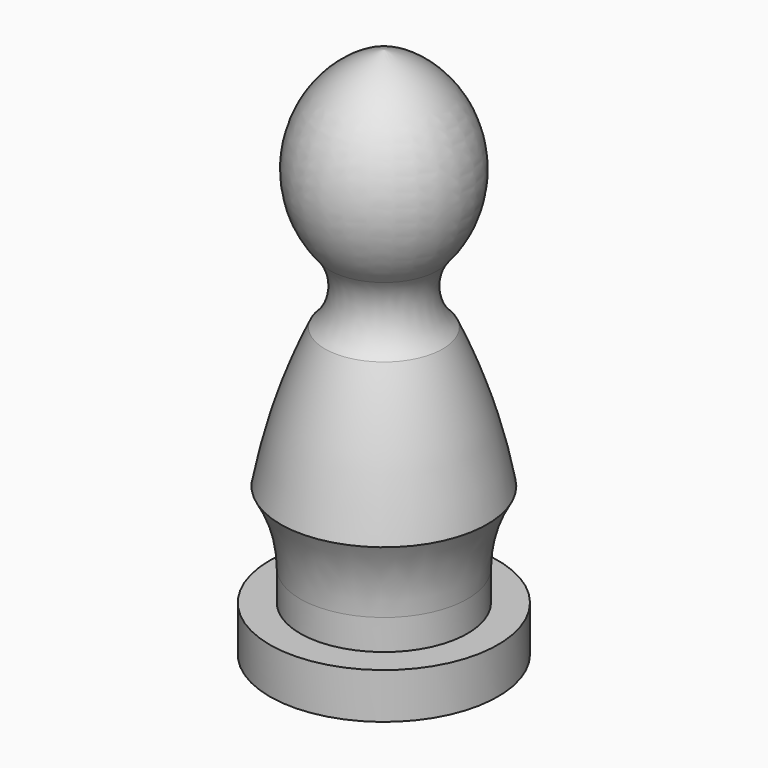
from build123d import *


with BuildPart() as f1:
    # F0 (on Front) → F1 (revolve)
    with BuildSketch(Plane.XZ):
        with BuildLine():
            Line((-9.525, 0), (0, 0))
            Line((0, 0), (0, 44.45))
            ThreePointArc((0, 44.45), (-6.374687, 38.311562), (-4.495263, 29.663741))
            ThreePointArc((-4.495263, 29.663741), (-3.62835, 26.774591), (-4.916137, 24.046895))
            ThreePointArc((-4.916137, 24.046895), (-7.151388, 18.327092), (-8.631316, 12.367032))
            ThreePointArc((-8.631316, 12.367032), (-7.404006, 9.469096), (-6.985, 6.35))
            Line((-6.985, 6.35), (-6.985, 3.81))
            Line((-6.985, 3.81), (-9.525, 3.81))
            Line((-9.525, 3.81), (-9.525, 0))
        make_face()
    revolve(axis=Axis((0, 0, 22.225), (0, 0, 1)))


solid = f1.part
